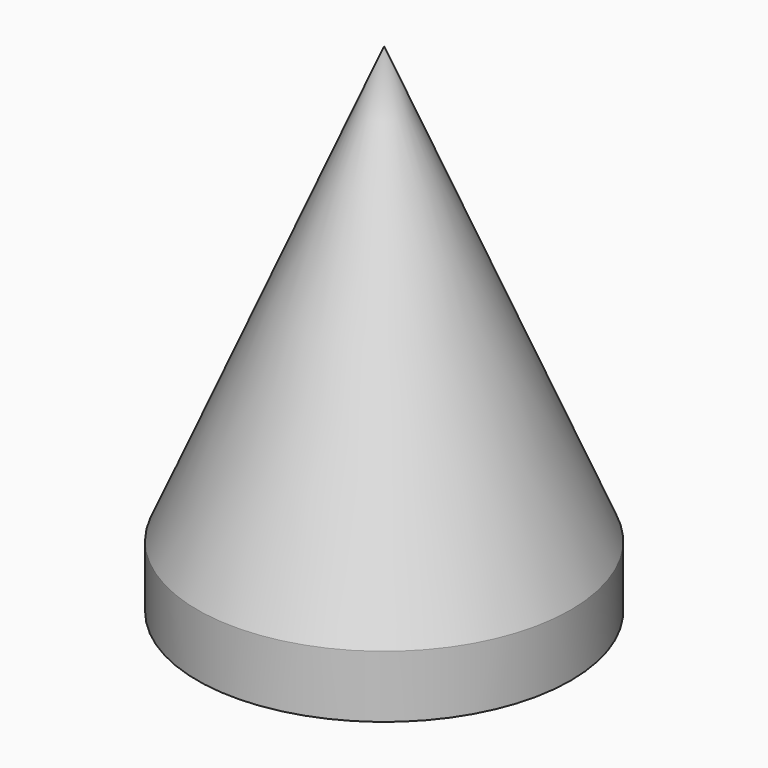
from build123d import *

# Parameters (mm, degrees)
F0_R     = 15
F0_R_2   = 8
F0_R_3   = 1.5
F1_DEPTH = 40
F2_DEPTH = 16
F3_SIZE2 = 35
F3_SIZE  = 15


with BuildPart() as f1:
    # F0 (on Top) → F1 (new body)
    with BuildSketch(Plane.XY):
        Circle(F0_R)
        Circle(F0_R_2, mode=Mode.SUBTRACT)
        Circle(F0_R_2)
        Circle(F0_R_3, mode=Mode.SUBTRACT)
        Circle(F0_R_3)
    extrude(amount=F1_DEPTH)

    # F0 (on Top) → F2 (cut)
    with BuildSketch(Plane.XY):
        Circle(F0_R_2)
        Circle(F0_R_3, mode=Mode.SUBTRACT)
        Circle(F0_R_3)
    extrude(amount=F2_DEPTH, mode=Mode.SUBTRACT)

    # F3
    f3_edges = [f1.edges().sort_by_distance(p)[0] for p in [
        (-15, 0, 40),
    ]]
    f3_side = f1.faces().sort_by_distance((0, 0, 40))[0]
    chamfer(f3_edges, length=F3_SIZE, length2=F3_SIZE2, reference=f3_side)


solid = f1.part
